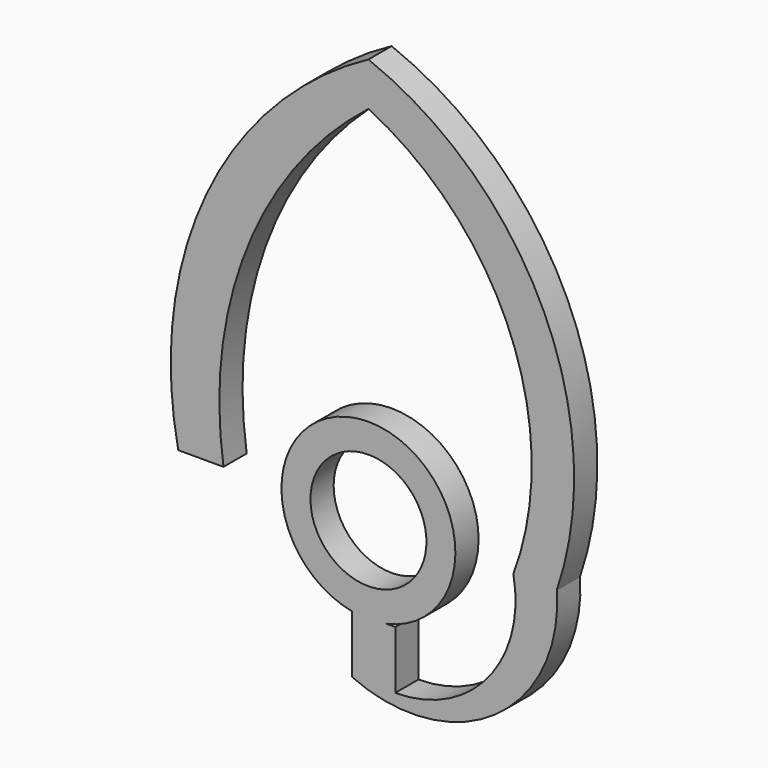
from build123d import *

# Parameters (mm, degrees)
F0_R     = 7.62
F1_DEPTH = 1.27
F3_D     = 10.16
F4_W     = 3.81
F4_H     = 5.08
F5_DEPTH = 1.27


with BuildPart() as f1:
    # F0 (on Front) → F1 (new body, symmetric)
    with BuildSketch(Plane.XZ):
        Circle(F0_R)
    extrude(amount=F1_DEPTH, both=True)

    # F3 (through all)
    with Locations(Plane.XZ.offset(1.27)):
        with Locations((0, 0)):
            Hole(F3_D / 2)

    # F4 (on Front) → F5 (join, symmetric)
    with BuildSketch(Plane.XZ):
        with Locations((0.448802, -9.999485)):
            Rectangle(F4_W, F4_H)
        with BuildLine():
            Line((2.353802, -12.539485), (-1.456198, -12.539485))
            ThreePointArc((-1.456198, -12.539485), (11.08983, -11.3746), (16.51, 0))
            ThreePointArc((16.51, 0), (15.388414, 21.091942), (0, 35.56))
            ThreePointArc((0, 35.56), (-14.210098, 20.534478), (-16.665379, 0))
            Line((-16.665379, 0), (-12.7, 0))
            ThreePointArc((-12.7, 0), (-10.634561, 17.588824), (0, 31.75))
            ThreePointArc((0, 31.75), (12.493217, 18.332287), (12.7, 0))
            ThreePointArc((12.7, 0), (10.482185, -8.708117), (2.353802, -12.539485))
        make_face()
    extrude(amount=F5_DEPTH, both=True)


solid = f1.part
